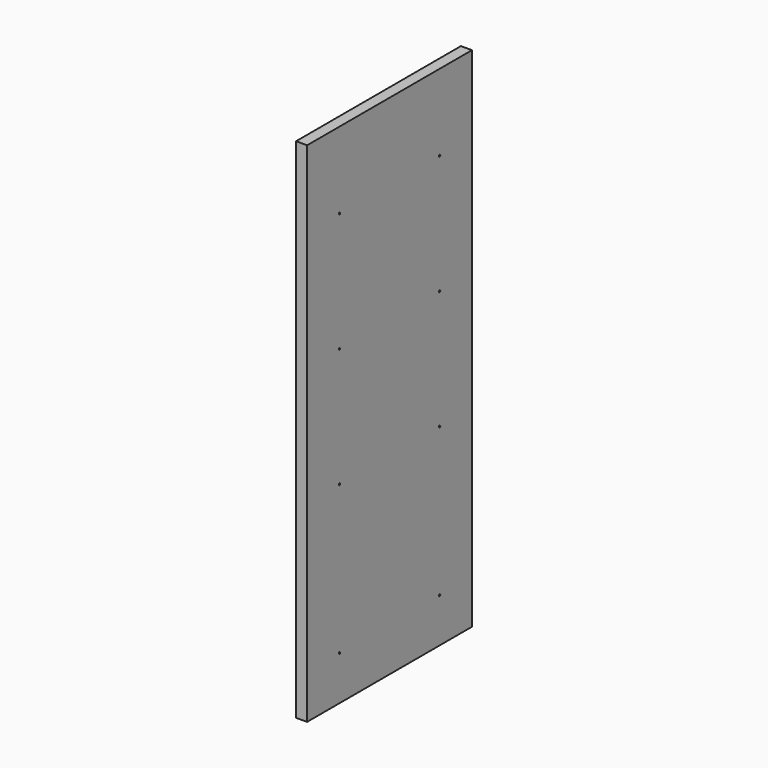
from build123d import *

# Parameters (mm, degrees)
F0_W     = 355.6
F0_H     = 895.35
F1_DEPTH = 19.05
F3_D     = 3.175
F3_DEPTH = 19.05
F3_TIP   = 0.9538662327
F4_DEPTH = 19.05


with BuildPart() as f1:
    # F0 (on Right) → F1 (new body)
    with BuildSketch(Plane.YZ):
        Rectangle(F0_W, F0_H)
    extrude(amount=F1_DEPTH)

    # F3
    with Locations(Plane.YZ.offset(19.05)):
        with Locations((-107.95, 315.595), (107.95, 315.595), (107.95, 109.855), (-107.95, 109.855), (-107.95, -95.885), (107.95, -95.885), (107.95, -352.425), (-107.95, -352.425)):
            Hole(F3_D / 2, depth=F3_DEPTH)
            with Locations((0, 0, -(F3_DEPTH + F3_TIP / 2))):  # 118° drill point
                Cone(0, F3_D / 2, F3_TIP, mode=Mode.SUBTRACT)

    # F4 (cut): a face of the model
    f4_faces = [f1.faces().sort_by_distance(p)[0] for p in [
        (9.525, 0, -447.675),
    ]]
    extrude(f4_faces, amount=-F4_DEPTH, mode=Mode.SUBTRACT)


solid = f1.part
